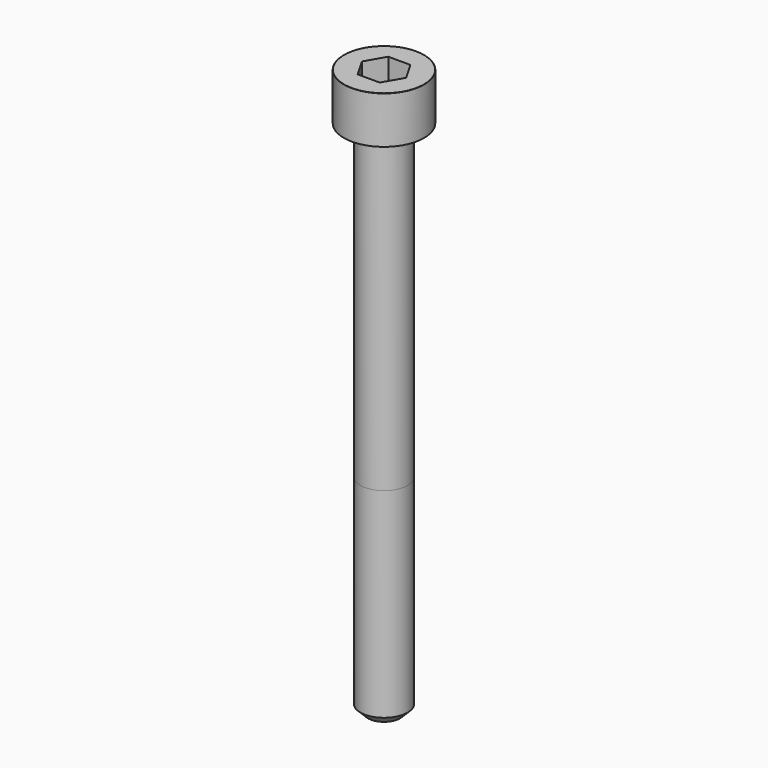
from build123d import *

# Parameters (mm, degrees)
POCKET_DEPTH = 4.06


with BuildPart() as part:
    # Sketch → Revolve (revolve)
    with BuildSketch(Plane.YZ):
        with BuildLine():
            Line((2.499, 0), (4.25, 0))
            Line((4.25, 0), (4.25, 4.97229))
            ThreePointArc((4.25, 4.97229), (4.241884, 4.991884), (4.22229, 5))
            Line((4.22229, 5), (0, 5))
            Line((0, -55), (0, 5))
            Line((1.7, -55), (0, -55))
            Line((2.5, -54.2), (1.7, -55))
            Line((2.5, -33), (2.5, -54.2))
            Line((2.499, 0), (2.5, -33))
        make_face()
    revolve(axis=Axis((0, 0, 0), (0, 0, 1)))

    # Sketch001 → Pocket (cut)
    with BuildSketch(Plane.XY.offset(5)):
        Polygon((2.344042, 0), (1.172021, 2.03), (-1.172021, 2.03), (-2.344042, 0), (-1.172021, -2.03), (1.172021, -2.03), align=None)
    extrude(amount=-POCKET_DEPTH, mode=Mode.SUBTRACT)


solid = part.part
